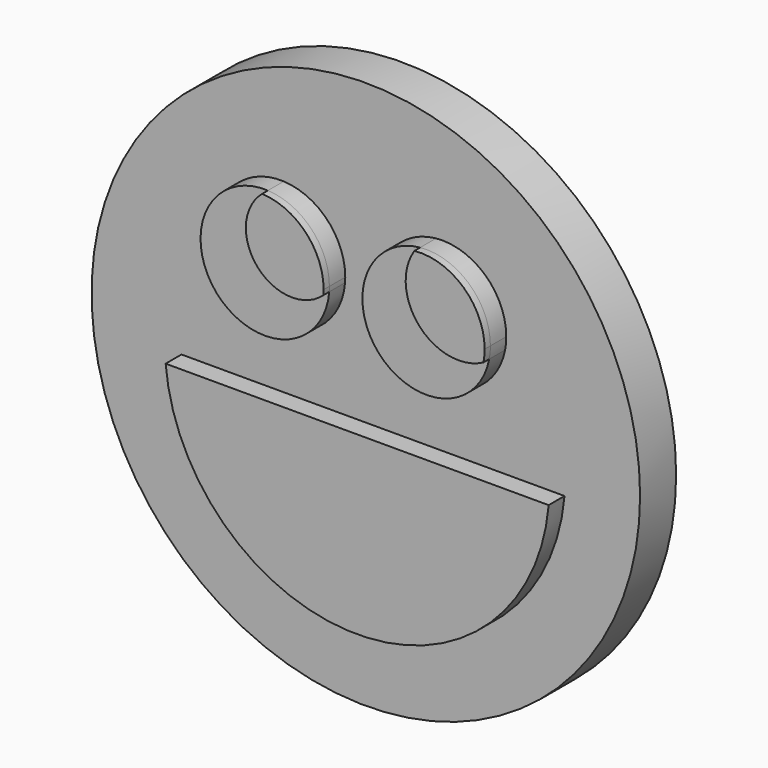
from build123d import *

# Parameters (mm, degrees)
F1_DEPTH = 3.81
F2_DEPTH = 2.794
F3_R     = 38.644504
F4_DEPTH = 6.35
F6_DEPTH = 1.27


with BuildPart() as f1:
    # F0 (on Front) → F1 (new body)
    with BuildSketch(Plane.XZ):
        with BuildLine():
            ThreePointArc((-15.847239, 39.88485), (-15.827422, 40.230662), (-15.820813, 40.57698))
            ThreePointArc((-15.820813, 40.57698), (-18.335457, 46.848204), (-24.486127, 49.644799))
            ThreePointArc((-24.486127, 49.644799), (-25.141357, 40.361559), (-15.847239, 39.88485))
        make_face()
        with BuildLine():
            ThreePointArc((6.703352, 38.878352), (6.824326, 39.72384), (6.864771, 40.57698))
            ThreePointArc((6.864771, 40.57698), (3.906987, 47.25521), (-3.026162, 49.552753))
            ThreePointArc((-3.026162, 49.552753), (-2.316264, 40.428477), (6.703352, 38.878352))
        make_face()
    extrude(amount=F1_DEPTH)


with BuildPart() as f2:
    # F0 (on Front) → F2 (new body)
    with BuildSketch(Plane.XZ):
        with BuildLine():
            ThreePointArc((-15.847239, 39.88485), (-15.827422, 40.230662), (-15.820813, 40.57698))
            ThreePointArc((-15.820813, 40.57698), (-18.335457, 46.848204), (-24.486127, 49.644799))
            ThreePointArc((-24.486127, 49.644799), (-25.141357, 40.361559), (-15.847239, 39.88485))
        make_face()
        with BuildLine():
            ThreePointArc((-15.847239, 39.88485), (-25.141357, 40.361559), (-24.486127, 49.644799))
            ThreePointArc((-24.486127, 49.644799), (-31.694991, 34.560698), (-15.847239, 39.88485))
        make_face()
        with BuildLine():
            ThreePointArc((6.703352, 38.878352), (6.824326, 39.72384), (6.864771, 40.57698))
            ThreePointArc((6.864771, 40.57698), (3.906987, 47.25521), (-3.026162, 49.552753))
            ThreePointArc((-3.026162, 49.552753), (-2.316264, 40.428477), (6.703352, 38.878352))
        make_face()
        with BuildLine():
            ThreePointArc((6.703352, 38.878352), (-2.316264, 40.428477), (-3.026162, 49.552753))
            ThreePointArc((-3.026162, 49.552753), (-8.818266, 34.502025), (6.703352, 38.878352))
        make_face()
        with BuildLine():
            Line((15.073373, 23.484852), (-38.894687, 23.484852))
            ThreePointArc((-38.894687, 23.484852), (-11.910657, -1.313124), (15.073373, 23.484852))
        make_face()
    extrude(amount=F2_DEPTH)

    # F5 (on face) → F6 (join)
    with BuildSketch(Plane.XZ.offset(2.794)):
        with BuildLine():
            ThreePointArc((-8.998633, -1.1561), (0.826267, 1.869185), (8.815678, 8.338368))
            ThreePointArc((8.815678, 8.338368), (-2.299838, 7.734643), (-8.998633, -1.1561))
        make_face()
    extrude(amount=-F6_DEPTH)


with BuildPart() as f4:
    # F3 (on Front) → F4 (new body)
    with BuildSketch(Plane.XZ):
        with Locations((-12.920034, 26.984029)):
            Circle(F3_R)
    extrude(amount=-F4_DEPTH)


solid = Compound([f1.part, f2.part, f4.part])
